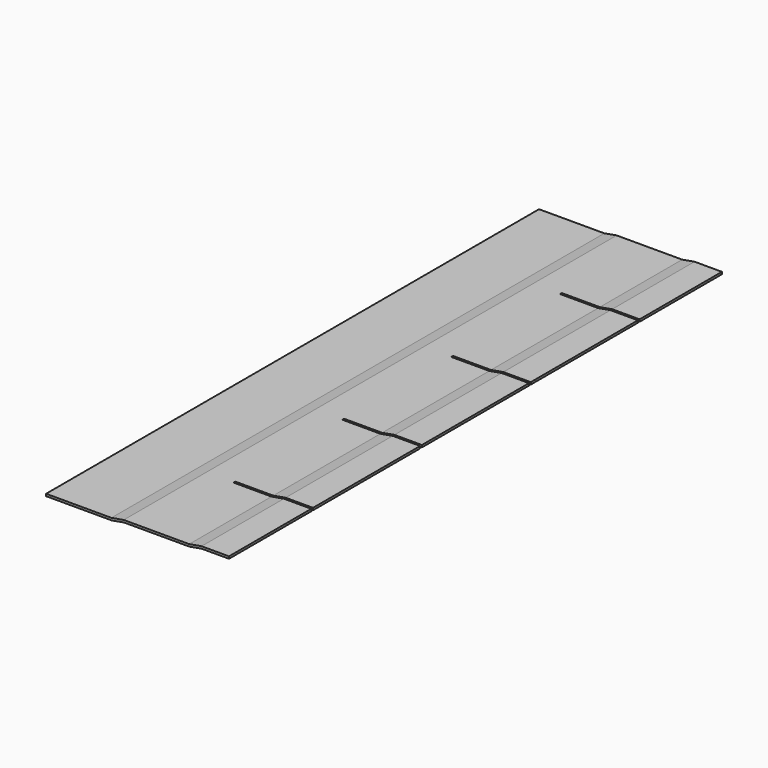
from build123d import *

# Parameters (mm, degrees)
F1_DEPTH      = 1132
F2_W          = 143
F2_H          = 4
F3_DEPTH      = 8.001
F3_DEPTH_BACK = 4.001


with BuildPart() as f1:
    # F0 (on Front) → F1 (new body)
    with BuildSketch(Plane.XZ):
        Polygon((119.9649180674, 0), (0, 0), (0, -4), (120.3148727215, -4), (143, 0), (263.3148727215, 0), (286, 4), (336, 4), (336, 8), (285.6500453459, 8), (262.9649180674, 4), (142.6500453459, 4), align=None)
    extrude(amount=-F1_DEPTH)

    # F2 (on face) → F3 (cut, two sides)
    with BuildSketch(Plane.XY.offset(4)) as f3_sk:
        with Locations((264.5, 191)):
            Rectangle(F2_W, F2_H)
        with Locations((264.5, 441)):
            Rectangle(F2_W, F2_H)
        with Locations((264.5, 691)):
            Rectangle(F2_W, F2_H)
        with Locations((264.5, 941)):
            Rectangle(F2_W, F2_H)
    extrude(amount=-F3_DEPTH, mode=Mode.SUBTRACT)
    extrude(f3_sk.sketch, amount=F3_DEPTH_BACK, mode=Mode.SUBTRACT)


solid = f1.part
